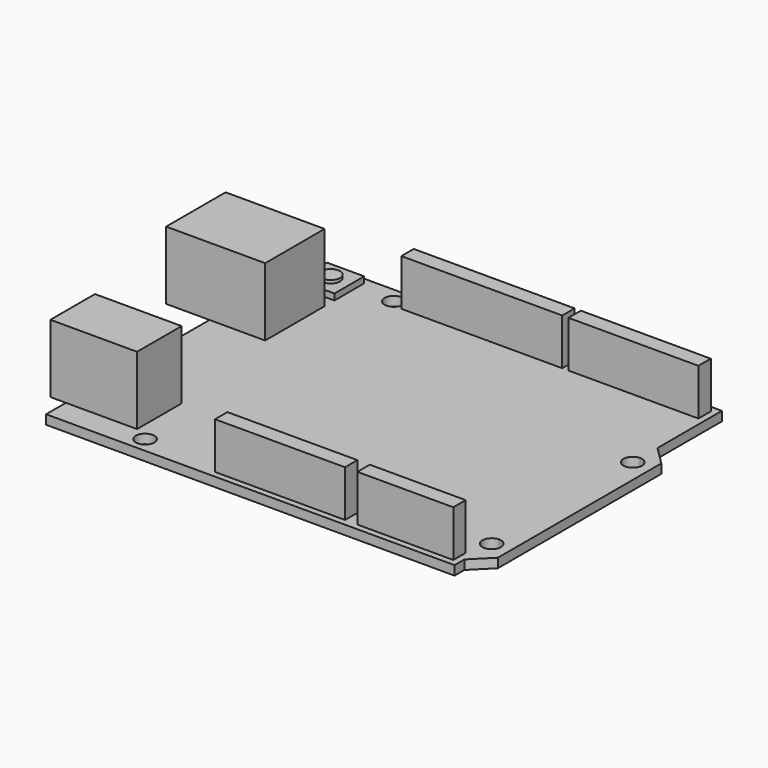
from build123d import *

# Parameters (mm, degrees)
F0_R     = 1.5
F0_W     = 21
F0_H     = 2.5
F0_W_2   = 15.5
F0_W_3   = 6
F0_H_2   = 6
F0_W_4   = 26
F1_DEPTH = 1.5
F2_DEPTH = 9
F3_DEPTH = 2.5
F4_DEPTH = 3
F0_W_5   = 7
F0_H_3   = 12
F0_W_6   = 9
F5_DEPTH = 12.5
F0_W_7   = 11.5
F0_H_4   = 9
F0_W_8   = 2.5
F6_DEPTH = 12.5
F7_W     = 7
F7_H     = 1.5
F8_DEPTH = 45.001


with BuildPart() as f1:
    # F0 (on Top) → F1 (new body)
    with BuildSketch(Plane.XY):
        with BuildLine():
            Line((33, 27), (-33, 27))
            Line((-33, 27), (-33, 18))
            Line((-33, 18), (-24, 18))
            Line((-24, 18), (-24, 6))
            Line((-24, 6), (-33, 6))
            Line((-33, 6), (-33, -14))
            Line((-33, -14), (-21.5, -14))
            Line((-21.5, -14), (-21.5, -23))
            Line((-21.5, -23), (-33, -23))
            Line((-33, -23), (-33, -27))
            Line((-33, -27), (33, -27))
            Line((33, -27), (33, -25))
            Line((33, -25), (33, -21))
            ThreePointArc((33, -21), (31.5, -19.5), (33, -18))
            Line((33, -18), (33, 7.5))
            ThreePointArc((33, 7.5), (31.5, 9), (33, 10.5))
            Line((33, 10.5), (33, 14))
            Line((33, 14), (33, 27))
        make_face()
        with Locations((-19, -24.5)):
            Circle(F0_R, mode=Mode.SUBTRACT)
        with Locations((4, -24.75)):
            Rectangle(F0_W, F0_H, mode=Mode.SUBTRACT)
        with Locations((24.25, -24.75)):
            Rectangle(F0_W_2, F0_H, mode=Mode.SUBTRACT)
        with Locations((-27, 23)):
            Rectangle(F0_W_3, F0_H_2, mode=Mode.SUBTRACT)
        with Locations((-18, 24.5)):
            Circle(F0_R, mode=Mode.SUBTRACT)
        with Locations((-3, 24.75)):
            Rectangle(F0_W_4, F0_H, mode=Mode.SUBTRACT)
        with Locations((21.5, 24.75)):
            Rectangle(F0_W, F0_H, mode=Mode.SUBTRACT)
        with BuildLine():
            Line((36, 11), (33, 14))
            Line((33, 14), (33, 10.5))
            ThreePointArc((33, 10.5), (34.06066, 10.06066), (34.5, 9))
            ThreePointArc((34.5, 9), (34.06066, 7.93934), (33, 7.5))
            Line((33, 7.5), (33, -18))
            ThreePointArc((33, -18), (34.06066, -18.43934), (34.5, -19.5))
            ThreePointArc((34.5, -19.5), (34.06066, -20.56066), (33, -21))
            Line((33, -21), (33, -25))
            Line((33, -25), (36, -22))
            Line((36, -22), (36, 11))
        make_face()
    extrude(amount=F1_DEPTH)

    # F0 (on Top) → F2 (join)
    with BuildSketch(Plane.XY):
        with Locations((-3, 24.75)):
            Rectangle(F0_W_4, F0_H)
        with Locations((21.5, 24.75)):
            Rectangle(F0_W, F0_H)
        with Locations((4, -24.75)):
            Rectangle(F0_W, F0_H)
        with Locations((24.25, -24.75)):
            Rectangle(F0_W_2, F0_H)
    extrude(amount=F2_DEPTH)

    # F0 (on Top) → F3 (join)
    with BuildSketch(Plane.XY):
        with Locations((-27, 23)):
            Rectangle(F0_W_3, F0_H_2)
        with Locations((-27, 23)):
            Circle(F0_R, mode=Mode.SUBTRACT)
    extrude(amount=F3_DEPTH)

    # F0 (on Top) → F4 (join)
    with BuildSketch(Plane.XY):
        with Locations((-27, 23)):
            Circle(F0_R)
    extrude(amount=F4_DEPTH)

    # F0 (on Top) → F5 (join)
    with BuildSketch(Plane.XY):
        with Locations((-36.5, 12)):
            Rectangle(F0_W_5, F0_H_3)
        with Locations((-28.5, 12)):
            Rectangle(F0_W_6, F0_H_3)
    extrude(amount=F5_DEPTH)

    # F0 (on Top) → F6 (join)
    with BuildSketch(Plane.XY):
        with Locations((-27.25, -18.5)):
            Rectangle(F0_W_7, F0_H_4)
        with Locations((-34.25, -18.5)):
            Rectangle(F0_W_8, F0_H_4)
    extrude(amount=F6_DEPTH)

    # F7 (on face) → F8 (cut, through all)
    with BuildSketch(Plane(origin=(0, 18, 0), x_dir=(-1, 0, 0), z_dir=(0, 1, 0))):
        with Locations((36.5, 0.75)):
            Rectangle(F7_W, F7_H)
    extrude(amount=-F8_DEPTH, mode=Mode.SUBTRACT)


solid = f1.part
